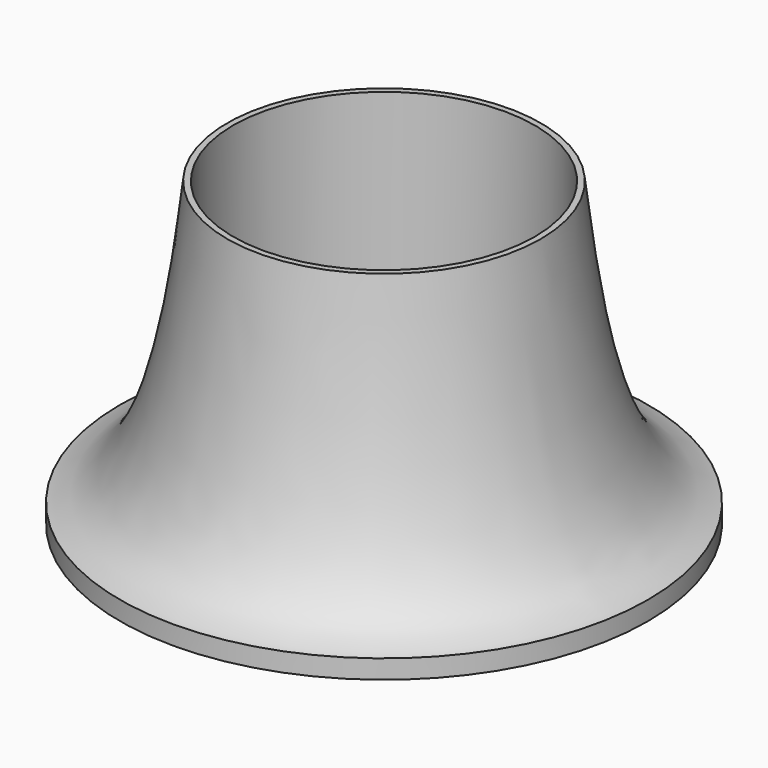
from build123d import *


with BuildPart() as f1:
    # F0 (on Front) → F1 (revolve)
    with BuildSketch(Plane.XZ):
        with BuildLine():
            Line((12.7, 25.4), (12.7, 0))
            Line((12.7, 0), (22.225, 0))
            Line((22.225, 0), (22.225, 1.5875))
            add(Edge.make_bspline(
                [(13.208, 25.4), (14.897877, 10.209822), (17.021144, 2.822346), (22.225, 1.5875)],
                knots=[0, 0, 0, 0, 25.46255, 25.46255, 25.46255, 25.46255], degree=3))
            Line((13.208, 25.4), (12.7, 25.4))
        make_face()
    revolve(axis=Axis((0, 0, 28.4311), (0, 0, 1)))


solid = f1.part
